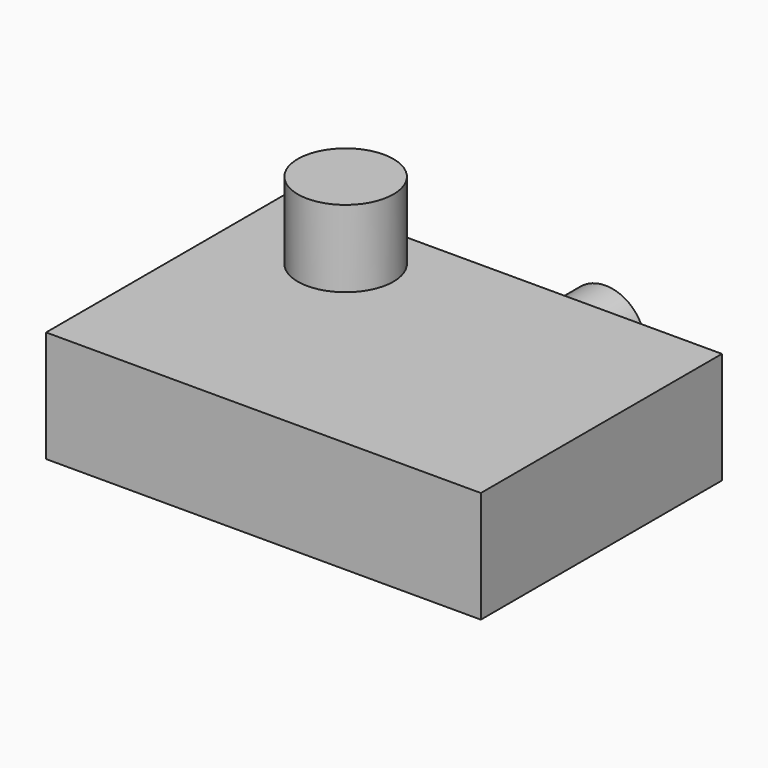
from build123d import *

# Parameters (mm, degrees)
F0_W     = 143.607307
F0_H     = 99.53899
F1_DEPTH = 36.83
F2_R     = 15.804954
F3_DEPTH = 25.4
F4_R     = 12.978901
F5_DEPTH = 18.034


with BuildPart() as f1:
    # F0 (on Top) → F1 (new body)
    with BuildSketch(Plane.XY):
        with Locations((-54.842492, 3.94509)):
            Rectangle(F0_W, F0_H)
    extrude(amount=F1_DEPTH)

    # F2 (on face) → F3 (join)
    with BuildSketch(Plane.XY.offset(36.83)):
        with Locations((-90.201773, 32.295499)):
            Circle(F2_R)
    extrude(amount=F3_DEPTH)

    # F4 (on face) → F5 (join)
    with BuildSketch(Plane(origin=(0, 53.714585, 0), x_dir=(-1, 0, 0), z_dir=(0, 1, 0))):
        with Locations((35.902489, 19.206859)):
            Circle(F4_R)
    extrude(amount=F5_DEPTH)


solid = f1.part
